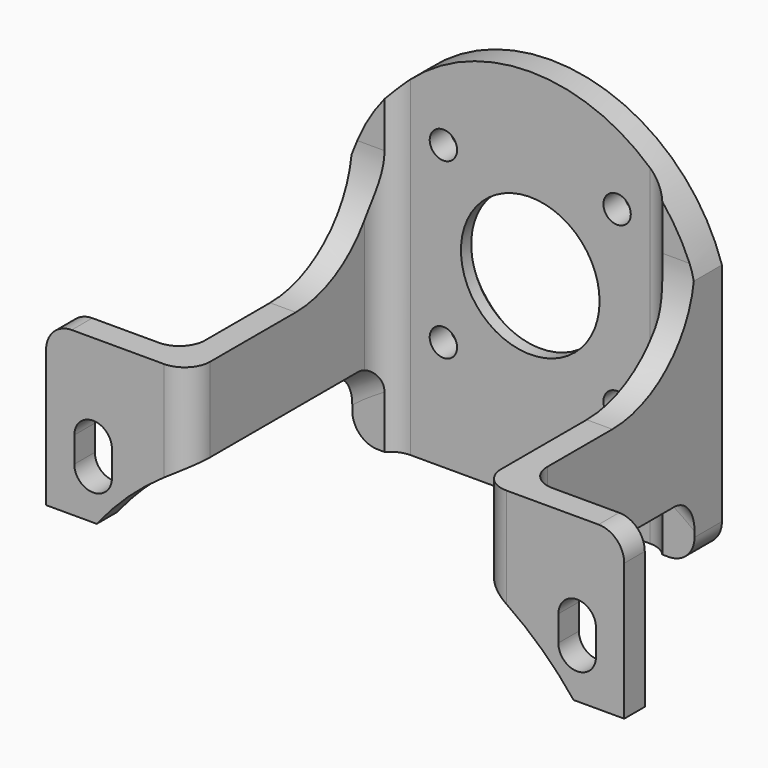
from build123d import *

# Parameters (mm, degrees)
PAD_DEPTH            = 21
PAD_DEPTH_BACK       = 23
POCKET_DEPTH         = 27.5
POCKET001_DEPTH      = 31.501
POCKET002_DEPTH      = 33.78525
POCKET002_DEPTH_BACK = -33.78525
SKETCH004_R          = 1.6
SKETCH004_R_2        = 8.1
POCKET003_DEPTH      = 31.501
CHAMFER_SIZE         = 1.5
FILLET_R             = 3


with BuildPart() as part:
    # Sketch → Pad (new body, two sides)
    with BuildSketch(Plane.XY) as pad_sk:
        with BuildLine():
            Line((-33.78425, 0), (-17, 0))
            Line((-17, 0), (-17, 25.5))
            ThreePointArc((-14, 28.5), (-16.12132, 27.62132), (-17, 25.5))
            Line((-14, 28.5), (14, 28.5))
            ThreePointArc((17, 25.5), (16.12132, 27.62132), (14, 28.5))
            Line((17, 25.5), (17, 0))
            Line((17, 0), (33.78425, 0))
            Line((33.78425, 0), (33.78425, 3))
            Line((23, 3), (33.78425, 3))
            ThreePointArc((20, 6), (20.87868, 3.87868), (23, 3))
            Line((20, 31.5), (20, 6))
            Line((-20, 31.5), (20, 31.5))
            Line((-20, 31.5), (-20, 6))
            ThreePointArc((-23, 3), (-20.87868, 3.87868), (-20, 6))
            Line((-33.78425, 3), (-23, 3))
            Line((-33.78425, 0), (-33.78425, 3))
        make_face()
    extrude(amount=PAD_DEPTH)
    extrude(pad_sk.sketch, amount=-PAD_DEPTH_BACK)

    # Sketch001 → Pocket (cut)
    with BuildSketch(Plane.XZ):
        with BuildLine():
            ThreePointArc((26.084271, -17.715729), (28.284271, -19.915729), (30.484271, -17.715729))
            Line((30.484271, -17.715729), (30.484271, -14.715729))
            ThreePointArc((30.484271, -14.715729), (28.284271, -12.515729), (26.084271, -14.715729))
            Line((26.084271, -17.715729), (26.084271, -14.715729))
        make_face()
        with BuildLine():
            ThreePointArc((-26.084271, -14.715729), (-28.284271, -12.515729), (-30.484271, -14.715729))
            Line((-30.484271, -14.715729), (-30.484271, -17.715729))
            ThreePointArc((-30.484271, -17.715729), (-28.284271, -19.915729), (-26.084271, -17.715729))
            Line((-26.084271, -14.715729), (-26.084271, -17.715729))
        make_face()
        with BuildLine():
            Line((-35.5, -45), (35.5, -45))
            ThreePointArc((35.5, -45), (25.102291, -19.897709), (0, -9.5))
            ThreePointArc((0, -9.5), (-25.102291, -19.897709), (-35.5, -45))
        make_face()
    extrude(amount=-POCKET_DEPTH, mode=Mode.SUBTRACT)

    # Sketch002 → Pocket001 (cut, through all)
    with BuildSketch(Plane.XZ):
        with BuildLine():
            ThreePointArc((21, 0), (0, 21), (-21, 0))
            Line((-21, -4), (-21, 0))
            Line((-38, -4), (-21, -4))
            Line((-38, 34), (-38, -4))
            Line((38, 34), (-38, 34))
            Line((38, -4), (38, 34))
            Line((21, -4), (38, -4))
            Line((21, 0), (21, -4))
        make_face()
    extrude(amount=-POCKET001_DEPTH, mode=Mode.SUBTRACT)

    # Sketch005 → Pocket002 (cut, two sides)
    with BuildSketch(Plane.YZ) as pocket002_sk:
        with BuildLine():
            Line((0, -4), (15.5, -4))
            ThreePointArc((15.5, -4), (23.985281, -0.485281), (27.5, 8))
            Line((27.5, 8), (27.5, 26))
            Line((27.5, 26), (0, 26))
            Line((0, 26), (0, -4))
        make_face()
    extrude(amount=-POCKET002_DEPTH, mode=Mode.SUBTRACT)
    extrude(pocket002_sk.sketch, amount=-POCKET002_DEPTH_BACK, mode=Mode.SUBTRACT)

    # Sketch004 → Pocket003 (cut, through all)
    with BuildSketch(Plane.XZ):
        with Locations((-10.15, 10.15)):
            Circle(SKETCH004_R)
        with Locations((10.15, 10.15)):
            Circle(SKETCH004_R)
        with Locations((10.15, -10.15)):
            Circle(SKETCH004_R)
        with Locations((-10.15, -10.15)):
            Circle(SKETCH004_R)
        Circle(SKETCH004_R_2)
    extrude(amount=-POCKET003_DEPTH, mode=Mode.SUBTRACT)

    # Chamfer
    chamfer_edges = [part.edges().sort_by_distance(p)[0] for p in [
        (-8.1, 31.5, 0),
    ]]
    chamfer(chamfer_edges, length=CHAMFER_SIZE)

    # Fillet
    fillet_edges = [part.edges().sort_by_distance(p)[0] for p in [
        (33.78425, 1.5, -4),
        (-33.78425, 1.5, -4),
        (-20, 29.5, -23),
        (20, 29.5, -23),
        (-17, 0, -8.917558),
        (17, 0, -8.917558),
        (-18.152606, 27.5, -14.492085),
        (18.152606, 27.5, -14.492085),
    ]]
    fillet(fillet_edges, radius=FILLET_R)


solid = part.part
